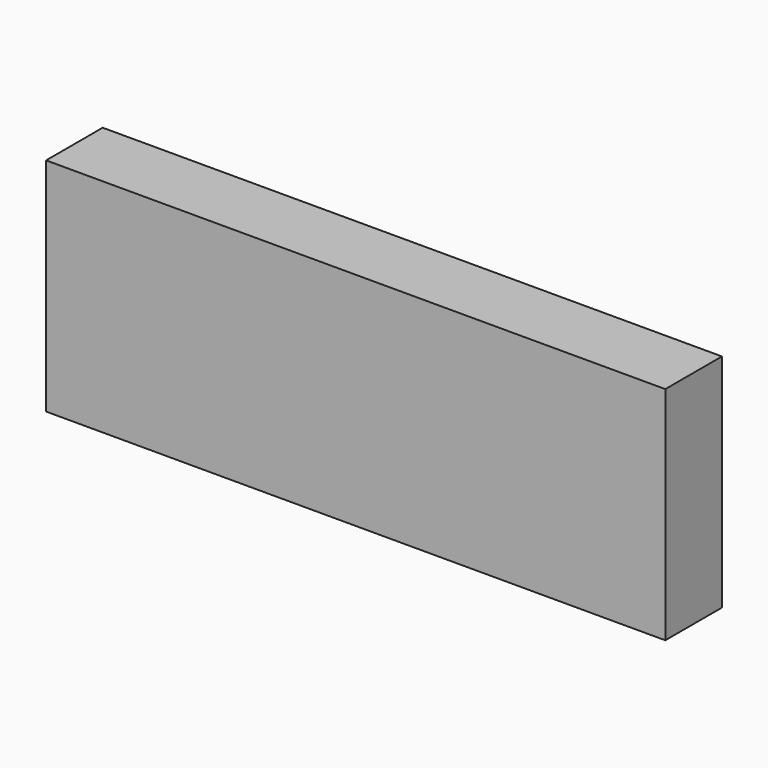
from build123d import *

# Parameters (mm, degrees)
SKETCH_W      = 140
SKETCH_H      = 16
EXTRUDE_DEPTH = 50


with BuildPart() as part:
    # Sketch → Extrude (new body)
    with BuildSketch(Plane.XY):
        Rectangle(SKETCH_W, SKETCH_H)
    extrude(amount=EXTRUDE_DEPTH)


solid = part.part
